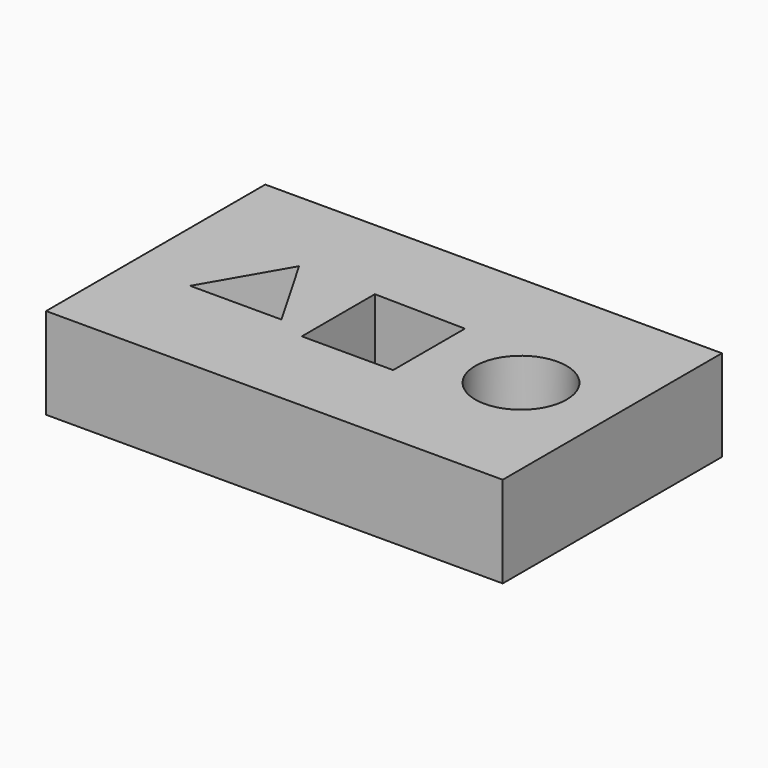
from build123d import *

# Parameters (mm, degrees)
F0_W     = 127
F0_H     = 76.2
F0_R     = 12.7
F1_DEPTH = 25.4


with BuildPart() as f1:
    # F0 (on Top) → F1 (new body)
    with BuildSketch(Plane.XY):
        Rectangle(F0_W, F0_H)
        Polygon((-46.478377, -9.297045), (-33.778377, 12.7), (-21.078377, -9.297045), align=None, mode=Mode.SUBTRACT)
        Polygon((-12.7, -12.7), (-12.7, 12.7), (12.696131, 12.256709), (12.696131, -12.7), align=None, mode=Mode.SUBTRACT)
        with Locations((38.1, 0)):
            Circle(F0_R, mode=Mode.SUBTRACT)
    extrude(amount=F1_DEPTH)


solid = f1.part
